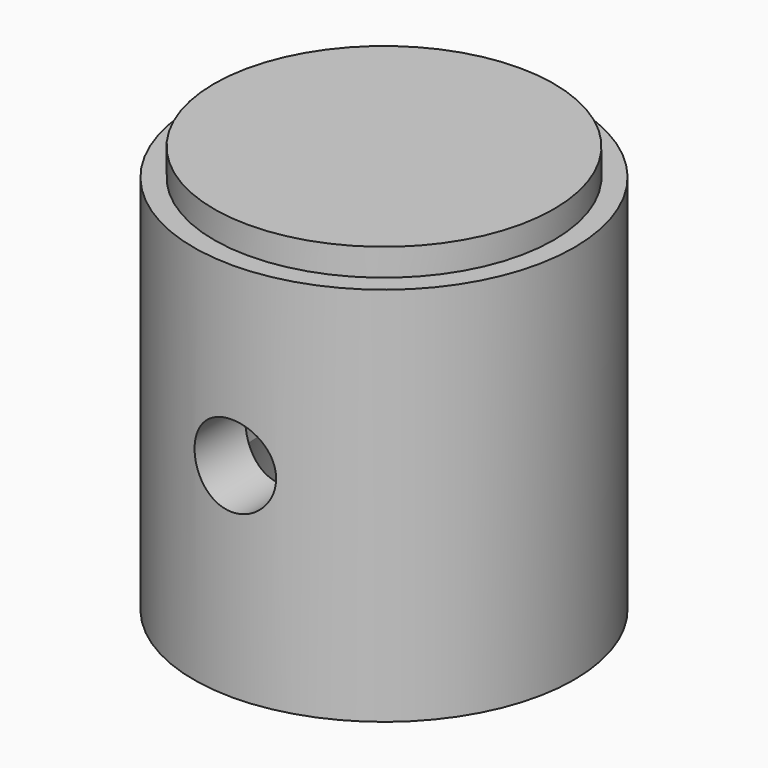
from build123d import *

# Parameters (mm, degrees)
F3_R     = 1.5
F4_DEPTH = 14.001


with BuildPart() as f1:
    # F0 (on Front) → F1 (revolve)
    with BuildSketch(Plane.XZ):
        Polygon((-7, 6.5), (-7, -7.5), (-6.2, -7.5), (-4.75, -3.516158), (-4.75, 2.5), (0, 6.5), (0, 7.5), (-6.25, 7.5), (-6.25, 6.5), align=None)
    revolve(axis=Axis((0, 0, 0.727193), (0, 0, -1)))

    # F3 (on offset) → F4 (cut, through all)
    with BuildSketch(Plane.XZ.offset(7)):
        Circle(F3_R)
    extrude(amount=-F4_DEPTH, mode=Mode.SUBTRACT)


solid = f1.part
